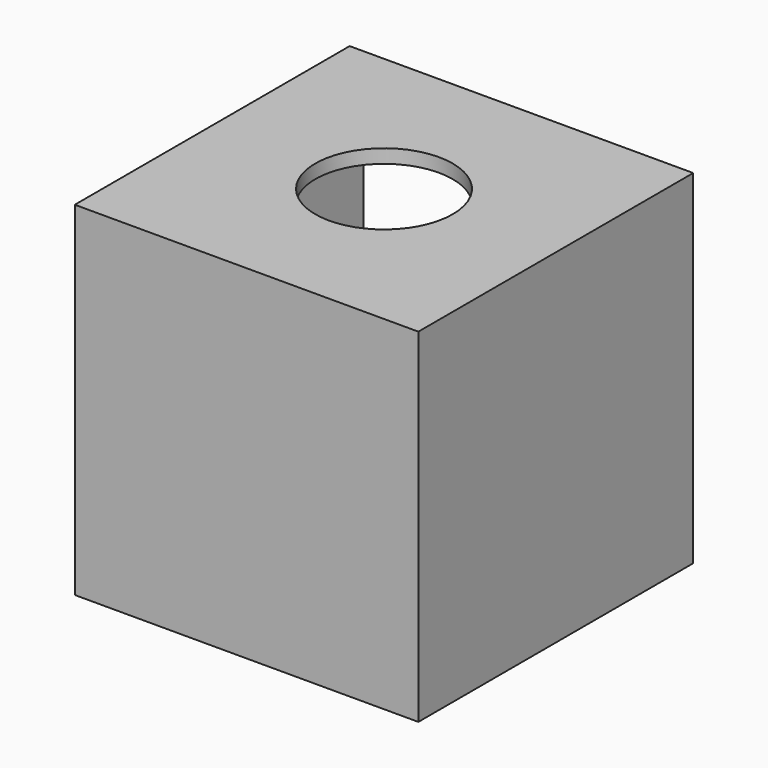
from build123d import *

# Parameters (mm, degrees)
F0_W      = 500
F0_H      = 500
F1_DEPTH  = 500
F2_T      = -20
F3_R      = 100
F4_DEPTH  = 25
F4_FACE_R = 100
F5_DEPTH  = 525.001


with BuildPart() as f1:
    # F0 (on Front) → F1 (new body)
    with BuildSketch(Plane.XZ):
        Rectangle(F0_W, F0_H)
    extrude(amount=-F1_DEPTH)

    # F2
    f2_openings = [f1.faces().sort_by_distance(p)[0] for p in [
        (0, 500, 0),
    ]]
    offset(amount=F2_T, openings=f2_openings)

    # F3 (on face) → F4 (join)
    with BuildSketch(Plane.XY.offset(250)):
        with Locations((0, 250)):
            Circle(F3_R)
    extrude(amount=F4_DEPTH)

    # F4_face (on face) → F5 (cut, through all)
    with BuildSketch(Plane(origin=(0, 250, 275), x_dir=(1, 0, 0), z_dir=(0, 0, 1))):
        Circle(F4_FACE_R)
    extrude(amount=-F5_DEPTH, mode=Mode.SUBTRACT)


solid = f1.part
